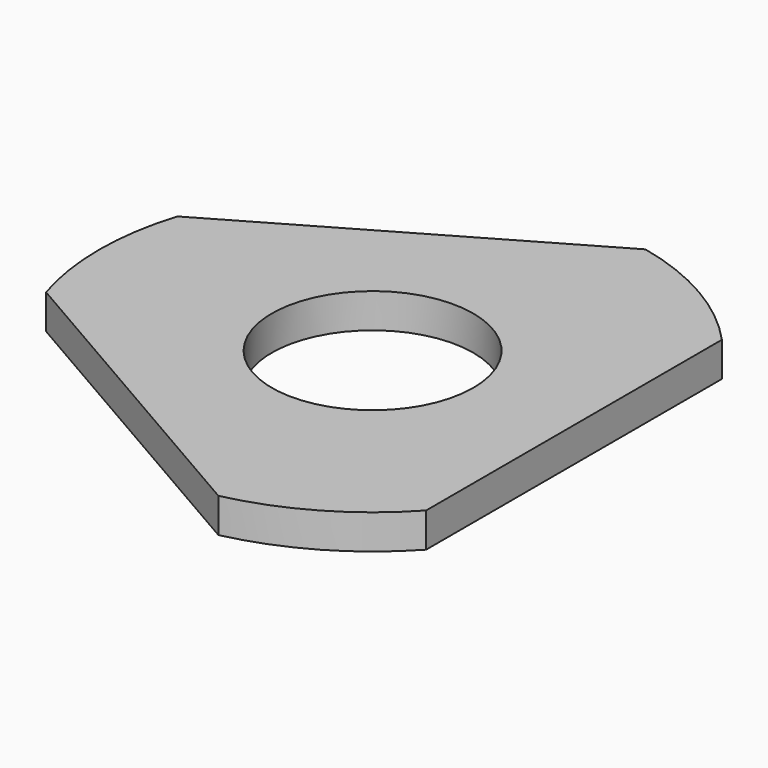
from build123d import *

# Parameters (mm, degrees)
F0_R     = 17.5
F1_DEPTH = 6


with BuildPart() as f1:
    # F0 (on Top) → F1 (new body)
    with BuildSketch(Plane.XY):
        with BuildLine():
            Line((10.310744, 46.36743), (-45.310744, 14.254348))
            ThreePointArc((-45.310744, 14.254348), (-47.5, 0), (-45.310744, -14.254348))
            Line((-45.310744, -14.254348), (10.310744, -46.36743))
            ThreePointArc((10.310744, -46.36743), (23.75, -41.136207), (35, -32.113081))
            Line((35, -32.113081), (35, 32.113081))
            ThreePointArc((35, 32.113081), (23.75, 41.136207), (10.310744, 46.36743))
        make_face()
        Circle(F0_R, mode=Mode.SUBTRACT)
    extrude(amount=F1_DEPTH)


solid = f1.part
